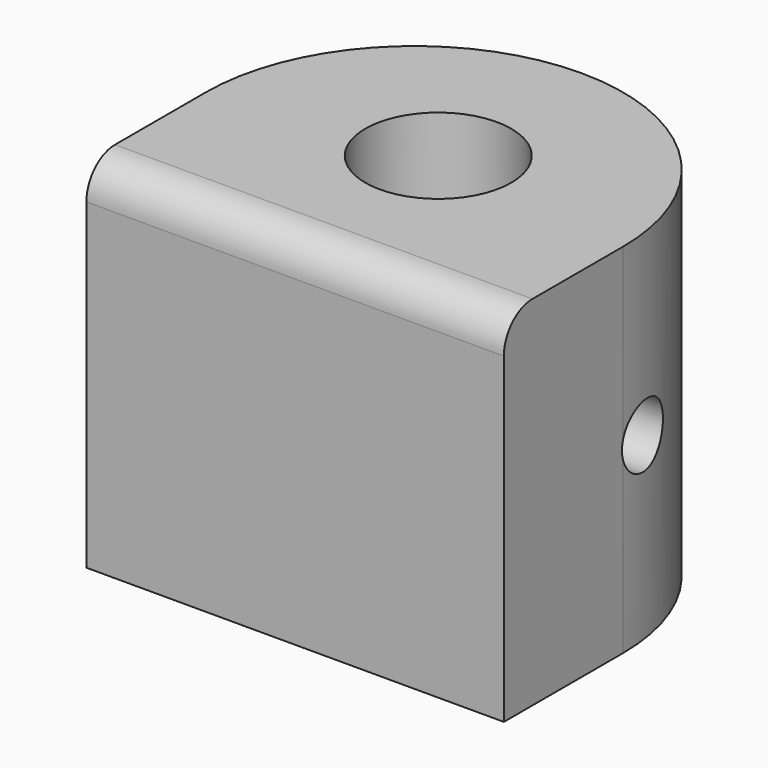
from build123d import *

# Parameters (mm, degrees)
PAD_DEPTH     = 15
FILLET_R      = 3
SKETCH001_R   = 6.125
HOLE_DEPTH    = 30.001
SKETCH002_R   = 2.625
HOLE001_DEPTH = 35.001


with BuildPart() as part:
    # Sketch → Pad (new body, symmetric)
    with BuildSketch(Plane.XY):
        with BuildLine():
            Line((-17.5, 0), (-17.5, -12.5))
            Line((-17.5, -12.5), (17.5, -12.5))
            Line((17.5, -12.5), (17.5, 0))
            ThreePointArc((17.5, 0), (0, 17.5), (-17.5, 0))
        make_face()
    extrude(amount=PAD_DEPTH, both=True)

    # Fillet
    fillet_edges = [part.edges().sort_by_distance(p)[0] for p in [
        (0, -12.5, 15),
    ]]
    fillet(fillet_edges, radius=FILLET_R)

    # Sketch001 (on Face5 of Fillet) → Hole (cut, through all)
    with BuildSketch(Plane.XY.offset(15)):
        with Locations((0, 2.5)):
            Circle(SKETCH001_R)
    extrude(amount=-HOLE_DEPTH, mode=Mode.SUBTRACT)

    # Sketch002 (on Face7 of Hole) → Hole001 (cut, through all)
    with BuildSketch(Plane.YZ.offset(17.5)):
        with Locations((2.5, 0)):
            Circle(SKETCH002_R)
    extrude(amount=-HOLE001_DEPTH, mode=Mode.SUBTRACT)


solid = part.part
